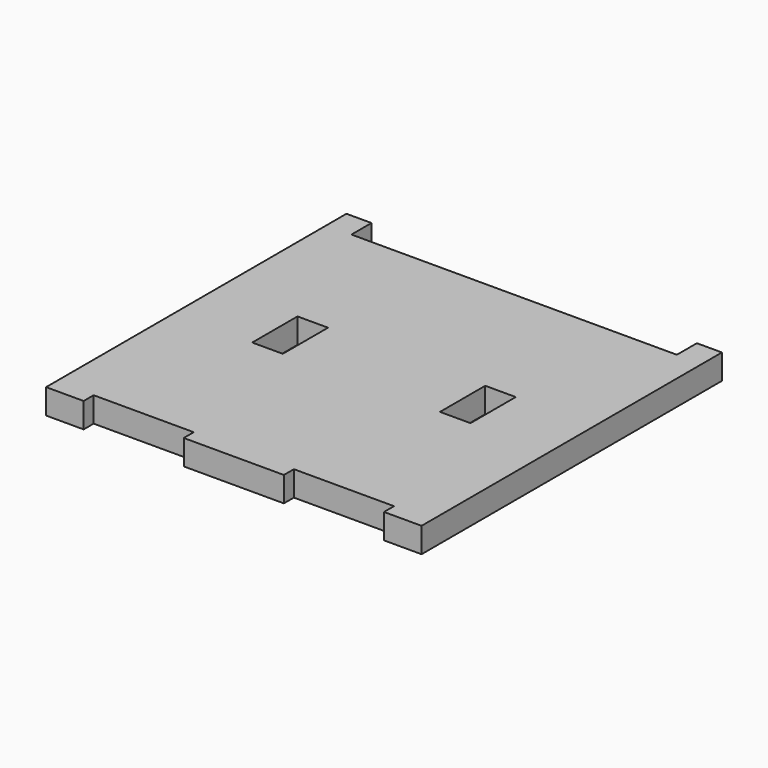
from build123d import *

# Parameters (mm, degrees)
PAD_DEPTH    = 5
SKETCH001_W  = 12.2
SKETCH001_H  = 22.6
POCKET_DEPTH = 10.001


with BuildPart() as part:
    # Sketch → Pad (new body, symmetric)
    with BuildSketch(Plane.XY):
        Polygon((150, 0), (150, 150), (140, 150), (140, 140), (10, 140), (10, 150), (0, 150), (0, 0), (15, 0), (15, 5), (55, 5), (55, 0), (95, 0), (95, 5), (135, 5), (135, 0), align=None)
    extrude(amount=PAD_DEPTH, both=True)

    # Sketch001 (on Face18 of Pad) → Pocket (cut, through all)
    with BuildSketch(Plane.XY.offset(5)):
        with Locations((37.5, 75)):
            Rectangle(SKETCH001_W, SKETCH001_H)
        with Locations((112.5, 75)):
            Rectangle(SKETCH001_W, SKETCH001_H)
    extrude(amount=-POCKET_DEPTH, mode=Mode.SUBTRACT)


solid = part.part
